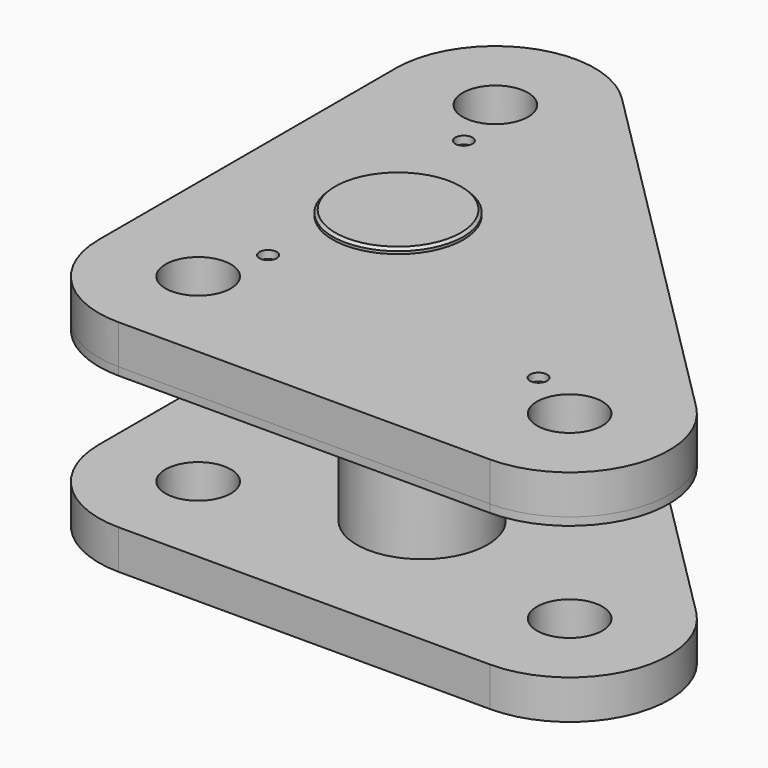
from build123d import *

# Parameters (mm, degrees)
SKETCH006_R     = 12.5
SKETCH006_R_2   = 25
PAD001_DEPTH    = 12
SKETCH_R        = 25
PAD_DEPTH       = 83
SKETCH007_R     = 12.5
SKETCH007_R_2   = 25
PAD002_DEPTH    = 15
SKETCH008_R     = 3.3
HOLE_DEPTH      = 15
HOLE_TIPS_R     = 3.3
CHAMFER_SIZE    = 1
SKETCH010_R     = 12.5
SKETCH010_R_2   = 25
PAD004_DEPTH    = 15
SKETCH009_R     = 25
PAD003_DEPTH    = 86
SKETCH011_R     = 12.5
SKETCH011_R_2   = 25
PAD005_DEPTH    = 15
SKETCH012_R     = 3.3
HOLE001_DEPTH   = 15
HOLE001_TIPS_R  = 3.3
CHAMFER001_SIZE = 1


with BuildPart() as triangle_droit:
    # Sketch006 → Pad001 (new body)
    with BuildSketch(Plane.XY):
        with BuildLine():
            ThreePointArc((0, 38), (11.129942, 11.129942), (38, 0))
            Line((38, 0), (180, 0))
            ThreePointArc((180, 0), (215.107422, 23.45803), (206.870058, 64.870058))
            Line((64.870058, 206.870058), (206.870058, 64.870058))
            ThreePointArc((64.870058, 206.870058), (23.45803, 215.107422), (0, 180))
            Line((0, 180), (0, 38))
        make_face()
        with Locations((38, 180)):
            Circle(SKETCH006_R, mode=Mode.SUBTRACT)
        with Locations((180, 38)):
            Circle(SKETCH006_R, mode=Mode.SUBTRACT)
        with Locations((38, 38)):
            Circle(SKETCH006_R, mode=Mode.SUBTRACT)
        with Locations((106, 60)):
            Circle(SKETCH006_R_2, mode=Mode.SUBTRACT)
    extrude(amount=PAD001_DEPTH)

    # Sketch (on Face11 of Pad001) → Pad (join)
    with BuildSketch(Plane(origin=(0, 0, 0), x_dir=(1, 0, 0), z_dir=(0, 0, -1))):
        with Locations((106, -60)):
            Circle(SKETCH_R)
    extrude(amount=-PAD_DEPTH)

    # Sketch007 (on DatumPlane) → Pad002 (join)
    with BuildSketch(Plane.XY.offset(66)):
        with BuildLine():
            ThreePointArc((0, 38), (11.129942, 11.129942), (38, 0))
            Line((38, 0), (180, 0))
            ThreePointArc((180, 0), (215.107422, 23.45803), (206.870058, 64.870058))
            Line((64.870058, 206.870058), (206.870058, 64.870058))
            ThreePointArc((64.870058, 206.870058), (23.45803, 215.107422), (0, 180))
            Line((0, 180), (0, 38))
        make_face()
        with Locations((38, 180)):
            Circle(SKETCH007_R, mode=Mode.SUBTRACT)
        with Locations((180, 38)):
            Circle(SKETCH007_R, mode=Mode.SUBTRACT)
        with Locations((38, 38)):
            Circle(SKETCH007_R, mode=Mode.SUBTRACT)
        with Locations((106, 60)):
            Circle(SKETCH007_R_2, mode=Mode.SUBTRACT)
    extrude(amount=PAD002_DEPTH)

    # Sketch008 (on Face24 of Pad002) → Hole (cut)
    with BuildSketch(Plane.XY.offset(81)):
        with Locations((50.325314, 158.249445)):
            Circle(SKETCH008_R)
        with Locations((156.036591, 45.124257)):
            Circle(SKETCH008_R)
        with Locations((61.786113, 45.695507)):
            Circle(SKETCH008_R)
    extrude(amount=-HOLE_DEPTH, mode=Mode.SUBTRACT)

    # Hole tips → Hole tip 1 section 0
    with BuildSketch(Plane.XY.offset(66), mode=Mode.PRIVATE) as hole_tip_1_s0:
        with Locations((50.325314, 158.249445)):
            Circle(HOLE_TIPS_R)
    loft([hole_tip_1_s0.sketch, Vertex(50.325314, 158.249445, 64.01716)], mode=Mode.SUBTRACT)

    # Hole tips → Hole tip 2 section 0
    with BuildSketch(Plane.XY.offset(66), mode=Mode.PRIVATE) as hole_tip_2_s0:
        with Locations((156.036591, 45.124257)):
            Circle(HOLE_TIPS_R)
    loft([hole_tip_2_s0.sketch, Vertex(156.036591, 45.124257, 64.01716)], mode=Mode.SUBTRACT)

    # Hole tips → Hole tip 3 section 0
    with BuildSketch(Plane.XY.offset(66), mode=Mode.PRIVATE) as hole_tip_3_s0:
        with Locations((61.786113, 45.695507)):
            Circle(HOLE_TIPS_R)
    loft([hole_tip_3_s0.sketch, Vertex(61.786113, 45.695507, 64.01716)], mode=Mode.SUBTRACT)

    # Chamfer
    chamfer_edges = [triangle_droit.edges().sort_by_distance(p)[0] for p in [
        (81, 60, 83),
    ]]
    chamfer(chamfer_edges, length=CHAMFER_SIZE)


with BuildPart() as trianglegauche:
    # Sketch010 → Pad004 (new body)
    with BuildSketch(Plane.XY):
        with BuildLine():
            ThreePointArc((0, 38), (11.129942, 11.129942), (38, 0))
            Line((38, 0), (180, 0))
            ThreePointArc((180, 0), (215.107422, 23.45803), (206.870058, 64.870058))
            Line((64.870058, 206.870058), (206.870058, 64.870058))
            ThreePointArc((64.870058, 206.870058), (23.45803, 215.107422), (0, 180))
            Line((0, 180), (0, 38))
        make_face()
        with Locations((38, 180)):
            Circle(SKETCH010_R, mode=Mode.SUBTRACT)
        with Locations((180, 38)):
            Circle(SKETCH010_R, mode=Mode.SUBTRACT)
        with Locations((38, 38)):
            Circle(SKETCH010_R, mode=Mode.SUBTRACT)
        with Locations((60, 106)):
            Circle(SKETCH010_R_2, mode=Mode.SUBTRACT)
    extrude(amount=PAD004_DEPTH)

    # Sketch009 (on Face11 of Pad004) → Pad003 (join)
    with BuildSketch(Plane(origin=(0, 0, 0), x_dir=(1, 0, 0), z_dir=(0, 0, -1))):
        with Locations((60, -106)):
            Circle(SKETCH009_R)
    extrude(amount=-PAD003_DEPTH)

    # Sketch011 (on DatumPlane) → Pad005 (join)
    with BuildSketch(Plane.XY.offset(69)):
        with BuildLine():
            ThreePointArc((0, 38), (11.129942, 11.129942), (38, 0))
            Line((38, 0), (180, 0))
            ThreePointArc((180, 0), (215.107422, 23.45803), (206.870058, 64.870058))
            Line((64.870058, 206.870058), (206.870058, 64.870058))
            ThreePointArc((64.870058, 206.870058), (23.45803, 215.107422), (0, 180))
            Line((0, 180), (0, 38))
        make_face()
        with Locations((38, 180)):
            Circle(SKETCH011_R, mode=Mode.SUBTRACT)
        with Locations((180, 38)):
            Circle(SKETCH011_R, mode=Mode.SUBTRACT)
        with Locations((38, 38)):
            Circle(SKETCH011_R, mode=Mode.SUBTRACT)
        with Locations((60, 106)):
            Circle(SKETCH011_R_2, mode=Mode.SUBTRACT)
    extrude(amount=PAD005_DEPTH)

    # Sketch012 (on Face24 of Pad005) → Hole001 (cut)
    with BuildSketch(Plane.XY.offset(84)):
        with Locations((45.124257, 156.036591)):
            Circle(SKETCH012_R)
        with Locations((158.249445, 50.325314)):
            Circle(SKETCH012_R)
        with Locations((45.695507, 61.786113)):
            Circle(SKETCH012_R)
    extrude(amount=-HOLE001_DEPTH, mode=Mode.SUBTRACT)

    # Hole001 tips → Hole001 tip 1 section 0
    with BuildSketch(Plane.XY.offset(69), mode=Mode.PRIVATE) as hole001_tip_1_s0:
        with Locations((45.124257, 156.036591)):
            Circle(HOLE001_TIPS_R)
    loft([hole001_tip_1_s0.sketch, Vertex(45.124257, 156.036591, 67.01716)], mode=Mode.SUBTRACT)

    # Hole001 tips → Hole001 tip 2 section 0
    with BuildSketch(Plane.XY.offset(69), mode=Mode.PRIVATE) as hole001_tip_2_s0:
        with Locations((158.249445, 50.325314)):
            Circle(HOLE001_TIPS_R)
    loft([hole001_tip_2_s0.sketch, Vertex(158.249445, 50.325314, 67.01716)], mode=Mode.SUBTRACT)

    # Hole001 tips → Hole001 tip 3 section 0
    with BuildSketch(Plane.XY.offset(69), mode=Mode.PRIVATE) as hole001_tip_3_s0:
        with Locations((45.695507, 61.786113)):
            Circle(HOLE001_TIPS_R)
    loft([hole001_tip_3_s0.sketch, Vertex(45.695507, 61.786113, 67.01716)], mode=Mode.SUBTRACT)

    # Chamfer001
    chamfer001_edges = [trianglegauche.edges().sort_by_distance(p)[0] for p in [
        (35, 106, 86),
    ]]
    chamfer(chamfer001_edges, length=CHAMFER001_SIZE)


solid = Compound([triangle_droit.part, trianglegauche.part])
